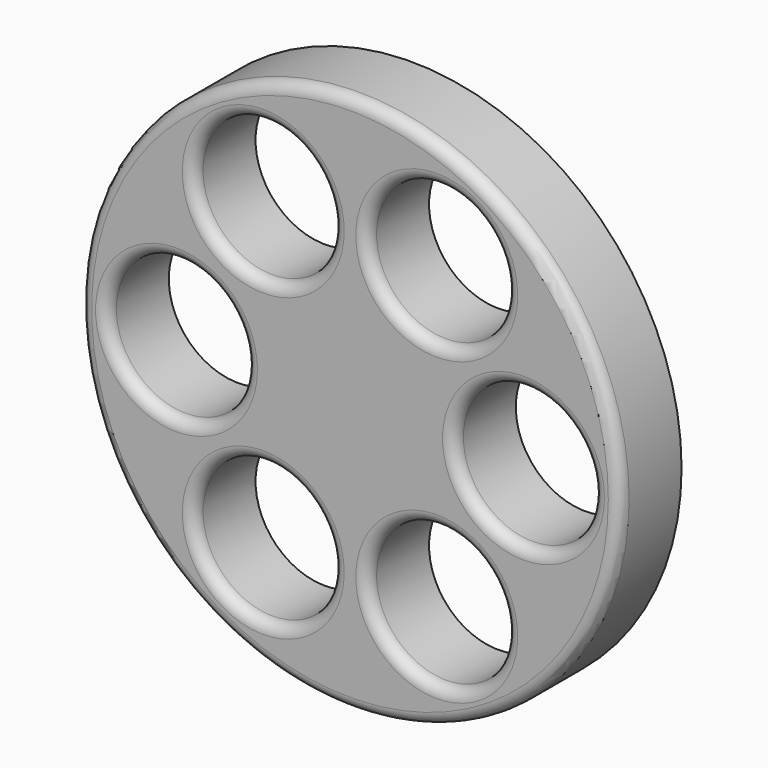
from build123d import *

# Parameters (mm, degrees)
F0_R     = 35
F0_R_2   = 9
F1_DEPTH = 10
F2_R     = 1.5


with BuildPart() as f1:
    # F0 (on Front) → F1 (new body)
    with BuildSketch(Plane.XZ):
        Circle(F0_R)
        with Locations((-11.25, -19.485572)):
            Circle(F0_R_2, mode=Mode.SUBTRACT)
        with Locations((11.25, -19.485572)):
            Circle(F0_R_2, mode=Mode.SUBTRACT)
        with Locations((-22.5, 0)):
            Circle(F0_R_2, mode=Mode.SUBTRACT)
        with Locations((-11.25, 19.485572)):
            Circle(F0_R_2, mode=Mode.SUBTRACT)
        with Locations((22.5, 0)):
            Circle(F0_R_2, mode=Mode.SUBTRACT)
        with Locations((11.25, 19.485572)):
            Circle(F0_R_2, mode=Mode.SUBTRACT)
    extrude(amount=F1_DEPTH)

    # F2
    f2_edges = [f1.edges().sort_by_distance(p)[0] for p in [
        (-35, -10, 0),
        (-20.25, -10, 19.485572),
        (-31.5, -10, 0),
        (2.25, -10, 19.485572),
        (13.5, -10, 0),
        (2.25, -10, -19.485572),
        (-20.25, -10, -19.485572),
    ]]
    fillet(f2_edges, radius=F2_R)


solid = f1.part
